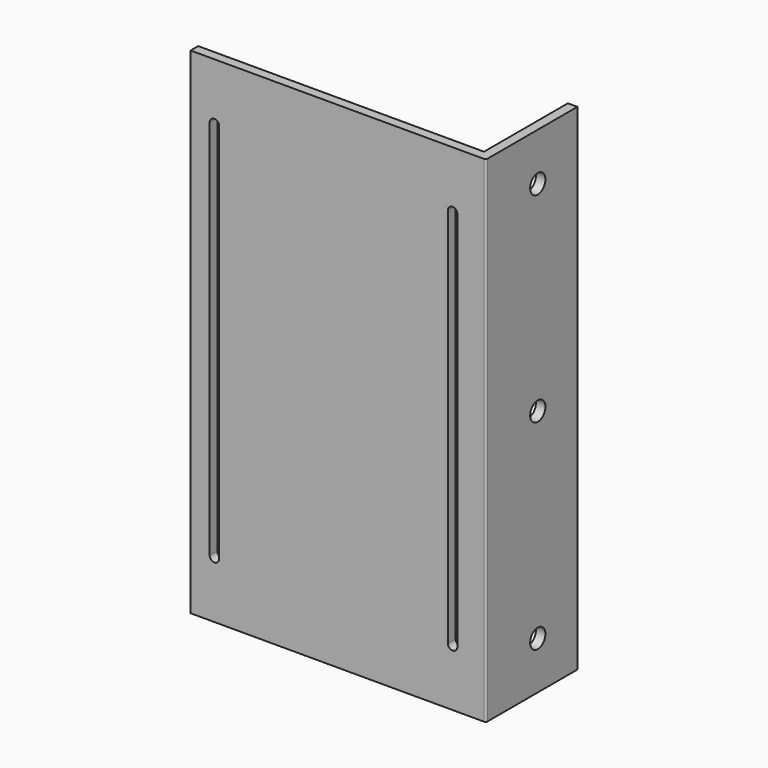
from build123d import *

# Parameters (mm, degrees)
F0_W      = 150
F0_H      = 260
F1_DEPTH  = 5
F3_DEPTH  = 6
F5_DEPTH  = 6
F6_DEPTH  = 6
F7_DEPTH  = 6
F8_DEPTH  = 6
F9_W      = 60
F9_H      = 260
F10_DEPTH = 5
F11_R     = 5
F12_DEPTH = 6
F13_R     = 1


with BuildPart() as f1:
    # F0 (on Front) → F1 (new body)
    with BuildSketch(Plane.XZ):
        Rectangle(F0_W, F0_H)
    extrude(amount=-F1_DEPTH)

    # F2 (on face) → F3 (cut)
    with BuildSketch(Plane.XZ):
        with BuildLine():
            ThreePointArc((-60, 100), (-62.5, 102.5), (-65, 100))
            Line((-65, 100), (-60, 100))
        make_face()
        with BuildLine():
            ThreePointArc((-60, 100), (-62.5, 97.5), (-65, 100))
            Line((-65, 100), (-65, -100))
            ThreePointArc((-65, -100), (-62.5, -97.5), (-60, -100))
            Line((-60, -100), (-60, 100))
        make_face()
        with BuildLine():
            Line((-60, 100), (-65, 100))
            ThreePointArc((-65, 100), (-62.5, 97.5), (-60, 100))
        make_face()
        with BuildLine():
            ThreePointArc((-60, -100), (-62.5, -97.5), (-65, -100))
            Line((-65, -100), (-60, -100))
        make_face()
        with BuildLine():
            Line((-60, -100), (-65, -100))
            ThreePointArc((-65, -100), (-62.5, -102.5), (-60, -100))
        make_face()
    extrude(amount=-F3_DEPTH, mode=Mode.SUBTRACT)

    # F4 (on face) → F5 (cut)
    with BuildSketch(Plane.XZ):
        with BuildLine():
            ThreePointArc((65, 100), (62.5, 102.5), (60, 100))
            Line((60, 100), (65, 100))
        make_face()
        with BuildLine():
            ThreePointArc((65, 100), (62.5, 97.5), (60, 100))
            Line((60, 100), (60, -100))
            ThreePointArc((60, -100), (62.5, -97.5), (65, -100))
            Line((65, -100), (65, 100))
        make_face()
        with BuildLine():
            Line((65, 100), (60, 100))
            ThreePointArc((60, 100), (62.5, 97.5), (65, 100))
        make_face()
        with BuildLine():
            ThreePointArc((65, -100), (62.5, -97.5), (60, -100))
            Line((60, -100), (65, -100))
        make_face()
        with BuildLine():
            Line((65, -100), (60, -100))
            ThreePointArc((60, -100), (62.5, -102.5), (65, -100))
        make_face()
    extrude(amount=-F5_DEPTH, mode=Mode.SUBTRACT)

    # F4 (on face) → F6 (cut)
    with BuildSketch(Plane.XZ):
        with BuildLine():
            ThreePointArc((65, 100), (62.5, 102.5), (60, 100))
            Line((60, 100), (65, 100))
        make_face()
        with BuildLine():
            ThreePointArc((65, 100), (62.5, 97.5), (60, 100))
            Line((60, 100), (60, -100))
            ThreePointArc((60, -100), (62.5, -97.5), (65, -100))
            Line((65, -100), (65, 100))
        make_face()
        with BuildLine():
            Line((65, 100), (60, 100))
            ThreePointArc((60, 100), (62.5, 97.5), (65, 100))
        make_face()
        with BuildLine():
            ThreePointArc((65, -100), (62.5, -97.5), (60, -100))
            Line((60, -100), (65, -100))
        make_face()
        with BuildLine():
            Line((65, -100), (60, -100))
            ThreePointArc((60, -100), (62.5, -102.5), (65, -100))
        make_face()
    extrude(amount=-F6_DEPTH, mode=Mode.SUBTRACT)

    # F2 (on face) → F7 (cut)
    with BuildSketch(Plane.XZ):
        with BuildLine():
            ThreePointArc((-60, 100), (-62.5, 102.5), (-65, 100))
            Line((-65, 100), (-60, 100))
        make_face()
        with BuildLine():
            ThreePointArc((-60, 100), (-62.5, 97.5), (-65, 100))
            Line((-65, 100), (-65, -100))
            ThreePointArc((-65, -100), (-62.5, -97.5), (-60, -100))
            Line((-60, -100), (-60, 100))
        make_face()
        with BuildLine():
            Line((-60, 100), (-65, 100))
            ThreePointArc((-65, 100), (-62.5, 97.5), (-60, 100))
        make_face()
        with BuildLine():
            ThreePointArc((-60, -100), (-62.5, -97.5), (-65, -100))
            Line((-65, -100), (-60, -100))
        make_face()
        with BuildLine():
            Line((-60, -100), (-65, -100))
            ThreePointArc((-65, -100), (-62.5, -102.5), (-60, -100))
        make_face()
    extrude(amount=-F7_DEPTH, mode=Mode.SUBTRACT)

    # F4 (on face) → F8 (cut)
    with BuildSketch(Plane.XZ):
        with BuildLine():
            ThreePointArc((65, 100), (62.5, 102.5), (60, 100))
            Line((60, 100), (65, 100))
        make_face()
        with BuildLine():
            ThreePointArc((65, 100), (62.5, 97.5), (60, 100))
            Line((60, 100), (60, -100))
            ThreePointArc((60, -100), (62.5, -97.5), (65, -100))
            Line((65, -100), (65, 100))
        make_face()
        with BuildLine():
            Line((65, 100), (60, 100))
            ThreePointArc((60, 100), (62.5, 97.5), (65, 100))
        make_face()
        with BuildLine():
            ThreePointArc((65, -100), (62.5, -97.5), (60, -100))
            Line((60, -100), (65, -100))
        make_face()
        with BuildLine():
            Line((65, -100), (60, -100))
            ThreePointArc((60, -100), (62.5, -102.5), (65, -100))
        make_face()
    extrude(amount=-F8_DEPTH, mode=Mode.SUBTRACT)

    # F9 (on face) → F10 (join)
    with BuildSketch(Plane.YZ.offset(75)):
        with Locations((30, 0)):
            Rectangle(F9_W, F9_H)
    extrude(amount=F10_DEPTH)

    # F11 (on face) → F12 (cut)
    with BuildSketch(Plane.YZ.offset(80)):
        with Locations((34, 0)):
            Circle(F11_R)
        with Locations((34, 105)):
            Circle(F11_R)
        with Locations((34, -105)):
            Circle(F11_R)
    extrude(amount=-F12_DEPTH, mode=Mode.SUBTRACT)

    # F13
    f13_edges = [f1.edges().sort_by_distance(p)[0] for p in [
        (80, 0, 0),
    ]]
    fillet(f13_edges, radius=F13_R)


solid = f1.part
